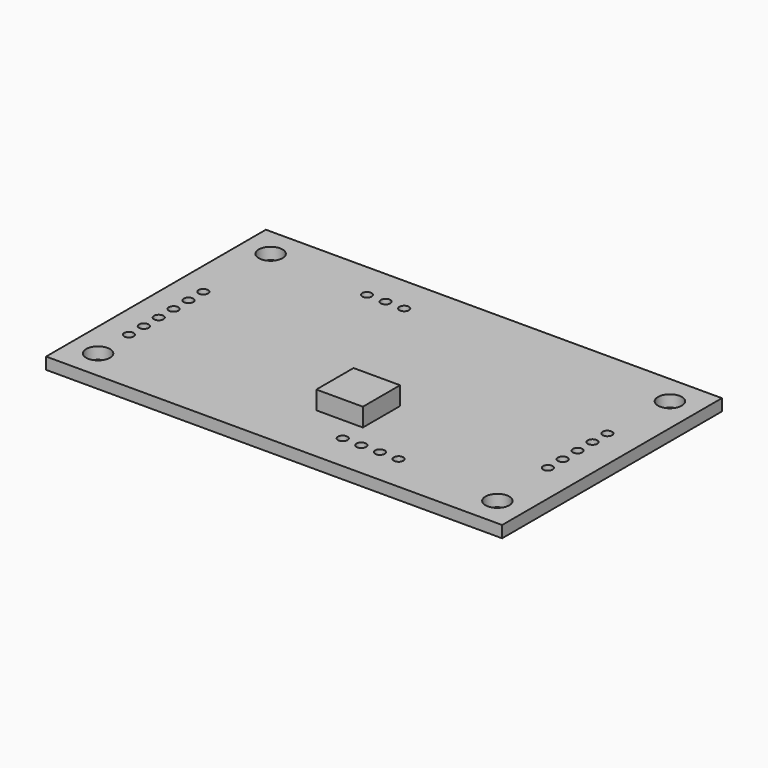
from build123d import *

# Parameters (mm, degrees)
F0_W     = 62.25
F0_H     = 37.5
F0_W_2   = 6.35
F0_H_2   = 6.35
F1_DEPTH = 1.6
F2_DEPTH = 2.5
F3_D     = 1.3
F4_D     = 3.25


with BuildPart() as f1:
    # F0 (on Top) → F1 (new body)
    with BuildSketch(Plane.XY):
        Rectangle(F0_W, F0_H)
        with Locations((2.3, -7.275)):
            Rectangle(F0_W_2, F0_H_2, mode=Mode.SUBTRACT)
        with Locations((2.3, -7.275)):
            Rectangle(F0_W_2, F0_H_2)
    extrude(amount=-F1_DEPTH)

    # F0 (on Top) → F2 (join)
    with BuildSketch(Plane.XY):
        with Locations((2.3, -7.275)):
            Rectangle(F0_W_2, F0_H_2)
    extrude(amount=F2_DEPTH)

    # F3 (through all)
    with Locations(Plane.XY):
        with Locations((-13.325, 13.75), (-10.785, 13.75), (-8.245, 13.75), (-27.375, 3.4), (-27.375, 0.86), (-27.375, -1.68), (-27.375, -4.22), (-27.375, -6.76), (-27.375, -9.3), (5.365, -13.75), (7.905, -13.75), (10.445, -13.75), (12.985, -13.75), (26.685, -5.4), (26.685, -2.86), (26.685, -0.32), (26.685, 2.22), (26.685, 4.76)):
            Hole(F3_D / 2)

    # F4 (through all)
    with Locations(Plane.XY):
        with Locations((-27.25, 14.72), (-27.25, -14.72), (27.25, -14.72), (27.25, 14.72)):
            Hole(F4_D / 2)


solid = f1.part
